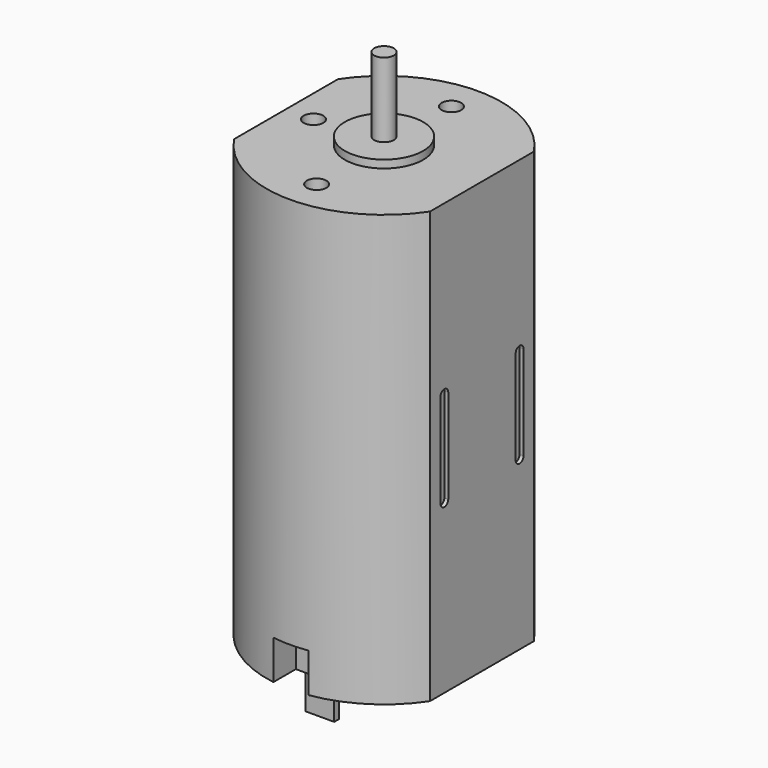
from build123d import *

# Parameters (mm, degrees)
PAD001_DEPTH            = 11
SKETCH003_R             = 2
PAD002_DEPTH            = 0.4
SKETCH004_R             = 0.5
PAD003_DEPTH            = 3.8
SKETCH005_R             = 0.5
POCKET001_DEPTH         = 3
SKETCH006_R             = 2.5
SKETCH006_R_2           = 1
PAD004_DEPTH            = 1.2
SKETCH007_W             = 3
SKETCH007_H             = 1.8
POCKET002_DEPTH         = 2
SKETCH008_W             = 0.3
SKETCH008_H             = 1.478048
PAD005_DEPTH            = 2
POCKET003_DEPTH         = 0.2
POLARPATTERN001_COUNT   = 2
BODY001_PLACEMENT_ANGLE = 90


with BuildPart() as part:
    # Sketch002 → Pad001 (new body, symmetric)
    with BuildSketch(Plane.XY):
        with BuildLine():
            ThreePointArc((-3.316625, 5), (-6, 0), (-3.316625, -5))
            Line((-3.316625, -5), (3.316625, -5))
            ThreePointArc((3.316625, -5), (6, 0), (3.316625, 5))
            Line((-3.316625, 5), (3.316625, 5))
        make_face()
    extrude(amount=PAD001_DEPTH, both=True)

    # Sketch003 (on Face6 of Pad001) → Pad002 (join)
    with BuildSketch(Plane.XY.offset(11)):
        Circle(SKETCH003_R)
    extrude(amount=PAD002_DEPTH)

    # Sketch004 (on Face8 of Pad002) → Pad003 (join)
    with BuildSketch(Plane.XY.offset(11.4)):
        Circle(SKETCH004_R)
    extrude(amount=PAD003_DEPTH)

    # Sketch005 (on Face5 of Pad003) → Pocket001 (cut)
    with BuildSketch(Plane.XY.offset(11)):
        with Locations((0, 3.6)):
            Circle(SKETCH005_R)
        with Locations((-4.3, 0)):
            Circle(SKETCH005_R)
        with Locations((4.3, 0)):
            Circle(SKETCH005_R)
    extrude(amount=-POCKET001_DEPTH, mode=Mode.SUBTRACT)

    # Sketch006 (on Face4 of Pocket001) → Pad004 (join)
    with BuildSketch(Plane(origin=(0, 0, -11), x_dir=(1, 0, 0), z_dir=(0, 0, -1))):
        Circle(SKETCH006_R)
        Circle(SKETCH006_R_2, mode=Mode.SUBTRACT)
    extrude(amount=PAD004_DEPTH)

    # Sketch007 (on Face4 of Pad004) → Pocket002 (cut)
    with BuildSketch(Plane(origin=(0, 0, -11), x_dir=(1, 0, 0), z_dir=(0, 0, -1))):
        with Locations((-6, 0)):
            Rectangle(SKETCH007_W, SKETCH007_H)
        with Locations((6, 0)):
            Rectangle(SKETCH007_W, SKETCH007_H)
    extrude(amount=-POCKET002_DEPTH, mode=Mode.SUBTRACT)

    # Sketch008 (on Face2 of Pocket002) → Pad005 (join)
    with BuildSketch(Plane(origin=(0, 0, -11), x_dir=(1, 0, 0), z_dir=(0, 0, -1))):
        with Locations((-3.95, 0)):
            Rectangle(SKETCH008_W, SKETCH008_H)
        with Locations((3.95, 0)):
            Rectangle(SKETCH008_W, SKETCH008_H)
    extrude(amount=PAD005_DEPTH)

    # Sketch009 (on Face6 of Pad005) → Pocket003 (cut)
    with BuildSketch(Plane.XZ.offset(5)):
        with BuildLine():
            ThreePointArc((-2.15, 2.4), (-2.4, 2.65), (-2.65, 2.4))
            Line((-2.65, 2.4), (-2.65, -2.4))
            ThreePointArc((-2.65, -2.4), (-2.4, -2.65), (-2.15, -2.4))
            Line((-2.15, 2.4), (-2.15, -2.4))
        make_face()
        with BuildLine():
            ThreePointArc((2.65, 2.4), (2.4, 2.65), (2.15, 2.4))
            Line((2.15, 2.4), (2.15, -2.4))
            ThreePointArc((2.15, -2.4), (2.4, -2.65), (2.65, -2.4))
            Line((2.65, 2.4), (2.65, -2.4))
        make_face()
    pocket003 = extrude(amount=-POCKET003_DEPTH, mode=Mode.SUBTRACT)

    # PolarPattern001: Pocket003 ×2 about axis
    polarpattern001_axis = Axis((0, 0, 0), (0, 0, 1))
    for i in range(1, POLARPATTERN001_COUNT):
        add(pocket003.rotate(polarpattern001_axis, i * 360 / POLARPATTERN001_COUNT), mode=Mode.SUBTRACT)


with BuildPart() as part_1:
    # Body001 placement: moved
    add(part.part.rotate(Axis((0, 0, 0), (0, 0, 1)), BODY001_PLACEMENT_ANGLE))


solid = part_1.part
